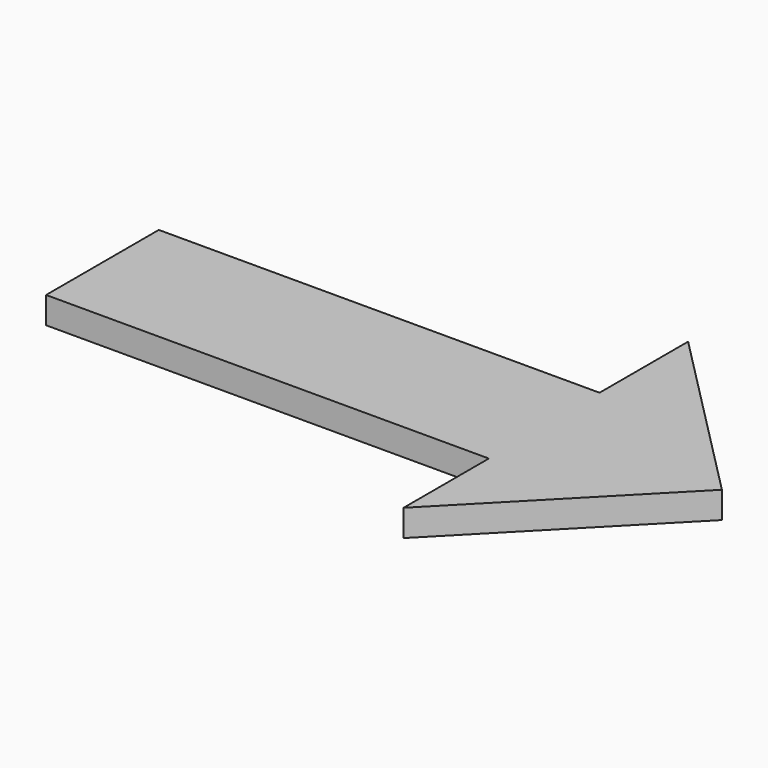
from build123d import *

# Parameters (mm, degrees)
PAD_DEPTH = 3


with BuildPart() as part:
    # Sketch → Pad (new body)
    with BuildSketch(Plane.XY):
        Polygon((29.864256, 0), (9.954754, 20.135742), (9.954754, 7.692307), (-39.592754, 7.692307), (-39.592754, -8.144796), (10.181002, -8.144796), (10.181002, -20.135748), align=None)
    extrude(amount=PAD_DEPTH)


solid = part.part
